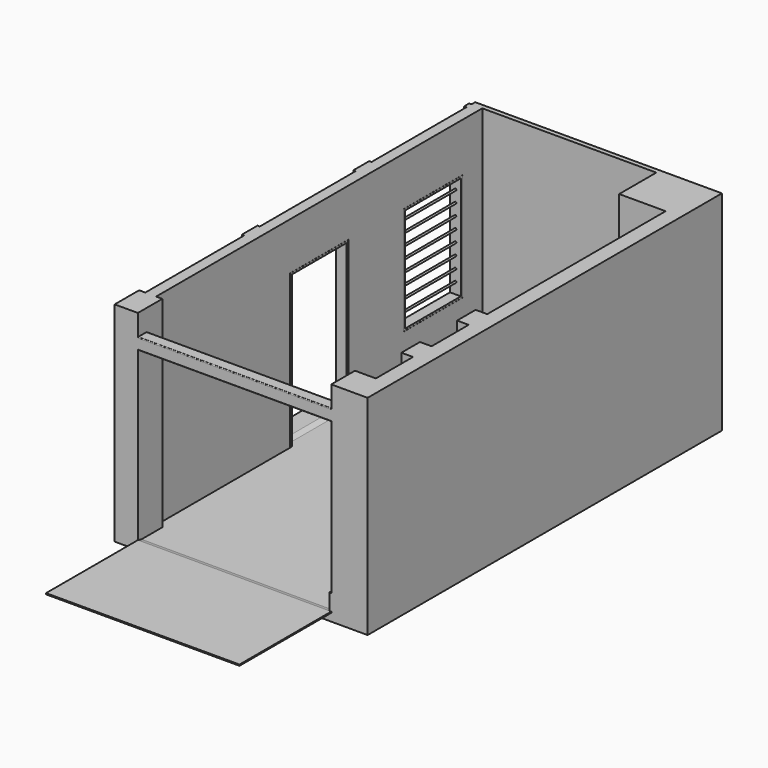
from build123d import *

# Parameters (mm, degrees)
F0_W      = 270
F0_H      = 383
F0_W_2    = 150
F0_H_2    = 300
F0_W_3    = 600
F0_H_3    = 600
F0_W_4    = 140
F0_H_4    = 1535
F0_H_5    = 1550
F0_H_6    = 1600
F1_DEPTH  = 2600
F2_W      = 3270
F2_H      = 5725
F3_DEPTH  = 100
F5_DEPTH  = 2500
F6_W      = 938
F6_H      = 1985
F7_DEPTH  = 140
F8_W      = 955
F8_H      = 1395
F9_DEPTH  = 140
F11_DEPTH = 938
F13_DEPTH = 25
F15_DEPTH = 2500
F16_W     = 25
F16_H     = 1959
F17_DEPTH = 140
F18_W     = 25
F18_H     = 1343
F19_DEPTH = 140
F20_R     = 11.823162
F21_DEPTH = 903


with BuildPart() as f1:
    # F0 (on Top) → F1 (new body)
    with BuildSketch(Plane.XY):
        with Locations((-135, 191.5)):
            Rectangle(F0_W, F0_H)
        Polygon((0, 383), (0, 0), (200, 0), (200, 5665), (0, 5665), (0, 5065), (0, 2183), (0, 1883), (0, 1283), (0, 983), align=None)
        with Locations((-75, 1133)):
            Rectangle(F0_W_2, F0_H_2)
        Polygon((0, 5665), (200, 5665), (200, 5725), (-2990, 5725), (-2990, 5665), (-2850, 5665), (-600, 5665), align=None)
        with Locations((-300, 5365)):
            Rectangle(F0_W_3, F0_H_3)
        with Locations((-75, 2033)):
            Rectangle(F0_W_2, F0_H_2)
        Polygon((-2850, 5585), (-2850, 5665), (-2990, 5665), (-3020, 5665), (-3020, 5585), (-2990, 5585), align=None)
        with Locations((-2920, 4817.5)):
            Rectangle(F0_W_4, F0_H_4)
        Polygon((-2850, 3795), (-2850, 4050), (-2990, 4050), (-3020, 4050), (-3020, 3795), (-2990, 3795), align=None)
        with Locations((-2920, 3020)):
            Rectangle(F0_W_4, F0_H_5)
        Polygon((-2850, 1995), (-2850, 2245), (-2990, 2245), (-3020, 2245), (-3020, 1995), (-2990, 1995), align=None)
        with Locations((-2920, 1195)):
            Rectangle(F0_W_4, F0_H_6)
        Polygon((-2770, 395), (-2850, 395), (-2990, 395), (-3070, 395), (-3070, 0), (-2770, 0), align=None)
    extrude(amount=F1_DEPTH)

    # F2 (on face) → F3 (join)
    with BuildSketch(Plane(origin=(0, 0, 0), x_dir=(1, 0, 0), z_dir=(0, 0, -1))):
        with Locations((-1435, -2862.5)):
            Rectangle(F2_W, F2_H)
    extrude(amount=F3_DEPTH)

    # F4 (on face) → F5 (join, through all)
    with BuildSketch(Plane.YZ.offset(-2770)):
        Polygon((-1483.026147, 0), (0, 0), (60, 0), (0, 15), (-1483.026147, 15), align=None)
    extrude(amount=F5_DEPTH)

    # F6 (on face) → F7 (cut, through all)
    with BuildSketch(Plane(origin=(-2990, 0, 0), x_dir=(0, -1, 0), z_dir=(-1, 0, 0))):
        with Locations((-3031, 992.5)):
            Rectangle(F6_W, F6_H)
    extrude(amount=-F7_DEPTH, mode=Mode.SUBTRACT)

    # F8 (on face) → F9 (cut, through all)
    with BuildSketch(Plane(origin=(-2990, 0, 0), x_dir=(0, -1, 0), z_dir=(-1, 0, 0))):
        with Locations((-4867.5, 1272.5)):
            Rectangle(F8_W, F8_H)
    extrude(amount=-F9_DEPTH, mode=Mode.SUBTRACT)

    # F10 (on face) → F11 (join, through all)
    with BuildSketch(Plane.XZ.offset(-3500)):
        Polygon((-3230.844469, 0), (-2920, 0), (-2990, 25), (-3230.844469, 25), align=None)
    extrude(amount=F11_DEPTH)

    # F12 (on face) → F13 (join)
    with BuildSketch(Plane(origin=(-270, 0, 0), x_dir=(0, -1, 0), z_dir=(-1, 0, 0))):
        Polygon((-383, 225), (-383, 0), (-60, 0), (0, 15), (0, 225), align=None)
    extrude(amount=F13_DEPTH)

    # F14 (on face) → F15 (join, through all)
    with BuildSketch(Plane.YZ.offset(-2770)):
        with BuildLine():
            Line((138, 2325), (10, 2325))
            ThreePointArc((10, 2325), (2.928932, 2322.071068), (0, 2315))
            Line((0, 2315), (0, 2187))
            ThreePointArc((0, 2187), (2.928932, 2179.928932), (10, 2177))
            Line((10, 2177), (138, 2177))
            ThreePointArc((138, 2177), (145.071068, 2179.928932), (148, 2187))
            Line((148, 2187), (148, 2315))
            ThreePointArc((148, 2315), (145.071068, 2322.071068), (138, 2325))
        make_face()
    extrude(amount=F15_DEPTH)

    # F16 (on face) → F17 (join, through all)
    with BuildSketch(Plane(origin=(-2990, 0, 0), x_dir=(0, -1, 0), z_dir=(-1, 0, 0))):
        Polygon((-2563, 1984), (-3499, 1984), (-3499, 1959), (-3474, 1959), (-2588, 1959), (-2563, 1959), align=None)
        with Locations((-3486.5, 979.5)):
            Rectangle(F16_W, F16_H)
        with Locations((-2575.5, 979.5)):
            Rectangle(F16_W, F16_H)
    extrude(amount=-F17_DEPTH)


with BuildPart() as f19:
    # F18 (on face) → F19 (new body, through all)
    with BuildSketch(Plane(origin=(-2990, 0, 0), x_dir=(0, -1, 0), z_dir=(-1, 0, 0))):
        Polygon((-4391, 1969), (-5344, 1969), (-5344, 1944), (-5319, 1944), (-4416, 1944), (-4391, 1944), align=None)
        Polygon((-5319, 1944), (-5344, 1944), (-5344, 576), (-5319, 576), (-5319, 601), align=None)
        with Locations((-4403.5, 1272.5)):
            Rectangle(F18_W, F18_H)
        Polygon((-4391, 576), (-4391, 601), (-4416, 601), (-5319, 601), (-5319, 576), align=None)
    extrude(amount=-F19_DEPTH)


with BuildPart() as f21:
    # F20 (on face) → F21 (new body, through all)
    with BuildSketch(Plane.XZ.offset(-5319)):
        with Locations((-2920, 743.202388)):
            Circle(F20_R)
        with Locations((-2920, 893.202388)):
            Circle(F20_R)
        with Locations((-2920, 1043.202388)):
            Circle(F20_R)
        with Locations((-2920, 1193.202388)):
            Circle(F20_R)
        with Locations((-2920, 1343.202388)):
            Circle(F20_R)
        with Locations((-2920, 1493.202388)):
            Circle(F20_R)
        with Locations((-2920, 1643.202388)):
            Circle(F20_R)
        with Locations((-2920, 1793.202388)):
            Circle(F20_R)
    extrude(amount=F21_DEPTH)


solid = Compound([f1.part, f19.part, f21.part])
